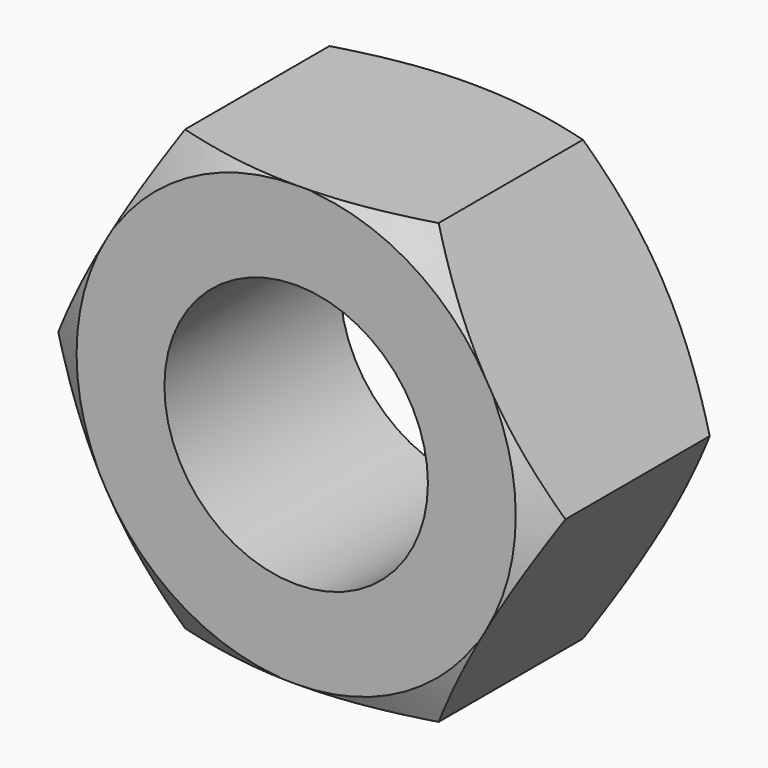
from build123d import *

# Parameters (mm, degrees)
F0_R     = 3
F1_DEPTH = 5


with BuildPart() as f1:
    # F0 (on Front) → F1 (new body)
    with BuildSketch(Plane.XZ):
        Polygon((2.886751, 5), (-2.886751, 5), (-5.773503, 0), (-2.886751, -5), (2.886751, -5), (5.773503, 0), align=None)
        Circle(F0_R, mode=Mode.SUBTRACT)
    extrude(amount=F1_DEPTH)

    # F2 (on Right) → F3 (revolve, cut)
    with BuildSketch(Plane.YZ):
        Polygon((0, 5.791639), (-0.457053, 5.791639), (0, 5), align=None)
        Polygon((-4.542947, 5.791639), (-5, 5.791639), (-5, 5), align=None)
    revolve(axis=Axis((0, -2.512997, 0), (0, -1, 0)), mode=Mode.SUBTRACT)


solid = f1.part
